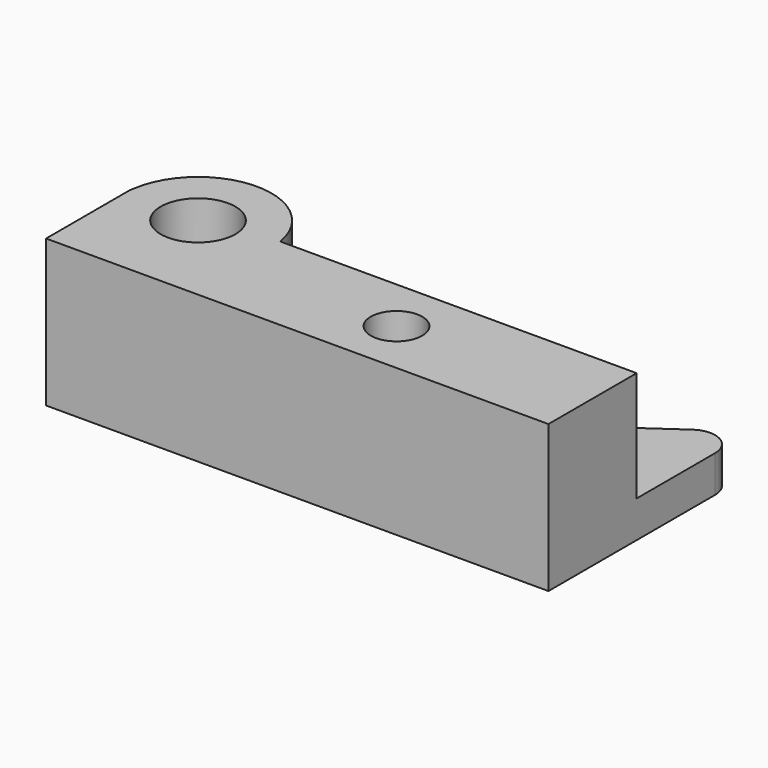
from build123d import *

# Parameters (mm, degrees)
F0_R     = 3.05
F1_DEPTH = 12
F2_R     = 2.1
F3_DEPTH = 9


with BuildPart() as f1:
    # F0 (on Top) → F1 (new body)
    with BuildSketch(Plane.XY):
        with BuildLine():
            Line((0, 11.605551), (0, 0))
            Line((0, 0), (41, 0))
            Line((41, 0), (41, 15))
            Line((41, 15), (41, 17))
            ThreePointArc((41, 17), (39.923497, 18.774022), (37.852847, 18.638304))
            Line((37.852847, 18.638304), (33.948199, 15.90424))
            ThreePointArc((33.948199, 15.90424), (32.583845, 15.231415), (31.080316, 15))
            Line((31.080316, 15), (6, 15))
            ThreePointArc((6, 15), (2.55318, 14.092572), (0, 11.605551))
        make_face()
        with Locations((6, 8)):
            Circle(F0_R, mode=Mode.SUBTRACT)
    extrude(amount=F1_DEPTH)

    # F2 (on face) → F3 (cut)
    with BuildSketch(Plane.XY.offset(12)):
        with BuildLine():
            Line((11.91608, 9), (41, 9))
            Line((41, 9), (41, 17))
            ThreePointArc((41, 17), (39.923497, 18.774022), (37.852847, 18.638304))
            Line((37.852847, 18.638304), (33.948199, 15.90424))
            ThreePointArc((33.948199, 15.90424), (32.583845, 15.231415), (31.080316, 15))
            Line((31.080316, 15), (6, 15))
            ThreePointArc((6, 15), (2.55318, 14.092572), (0, 11.605551))
            Line((0, 11.605551), (0, 8.503521))
            Line((0, 8.503521), (0.08392, 9))
            ThreePointArc((0.08392, 9), (6, 14), (11.91608, 9))
        make_face()
        with Locations((25, 4.5)):
            Circle(F2_R)
    extrude(amount=-F3_DEPTH, mode=Mode.SUBTRACT)


solid = f1.part
